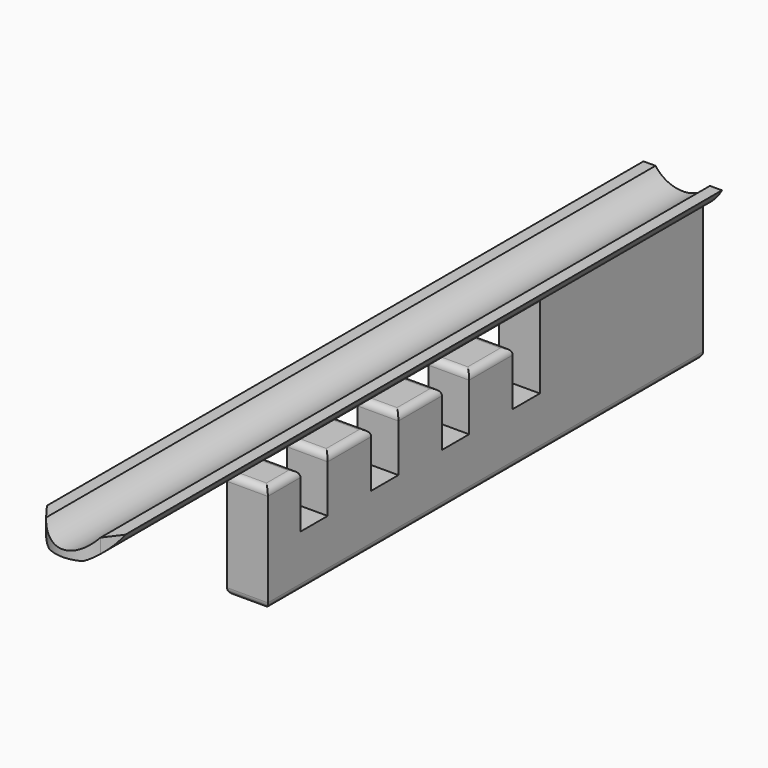
from build123d import *

# Parameters (mm, degrees)
PAD_DEPTH            = 120
PAD001_DEPTH         = 80
POCKET_DEPTH         = 5.767281
POCKET_DEPTH_BACK    = 5.767281
POCKET001_DEPTH      = 25.767281
POCKET002_DEPTH      = 5.767281
POCKET002_DEPTH_BACK = 5.767281
POCKET003_DEPTH      = 5.767281
POCKET003_DEPTH_BACK = 5.767281
POCKET004_DEPTH      = 5.767281
POCKET004_DEPTH_BACK = 5.767281
FILLET_R             = 1


with BuildPart() as part:
    # Sketch → Pad (new body)
    with BuildSketch(Plane.XZ):
        with BuildLine():
            ThreePointArc((-4, -3), (0, -5), (4, -3))
            Line((4, -3), (5.766281, -3))
            ThreePointArc((-5.766281, -3), (0, -6.5), (5.766281, -3))
            Line((-4, -3), (-5.766281, -3))
        make_face()
    extrude(amount=PAD_DEPTH)

    # Sketch001 → Pad001 (join)
    with BuildSketch(Plane.XZ):
        with BuildLine():
            ThreePointArc((-3, -5.766281), (0, -6.5), (3, -5.766281))
            Line((3, -25.766281), (3, -5.766281))
            Line((-3, -25.766281), (3, -25.766281))
            Line((-3, -5.766281), (-3, -25.766281))
        make_face()
    extrude(amount=PAD001_DEPTH)

    # Sketch002 → Pocket (cut, two sides)
    with BuildSketch(Plane.YZ) as pocket_sk:
        Polygon((-30, -18), (-30, -6), (-90, -6), (-90, -10), (-35, -10), (-35, -18), align=None)
    extrude(amount=-POCKET_DEPTH, mode=Mode.SUBTRACT)
    extrude(pocket_sk.sketch, amount=POCKET_DEPTH_BACK, mode=Mode.SUBTRACT)

    # Sketch003 → Pocket001 (cut, through all)
    with BuildSketch(Plane.XY):
        with BuildLine():
            Line((-10, -104), (-10, -134))
            Line((-10, -134), (10, -134))
            Line((10, -134), (10, -104))
            Line((10, -104), (4, -112))
            ThreePointArc((-4, -112), (0, -114), (4, -112))
            Line((-4, -112), (-10, -104))
        make_face()
    extrude(amount=-POCKET001_DEPTH, mode=Mode.SUBTRACT)

    # Sketch004 → Pocket002 (cut, two sides)
    with BuildSketch(Plane.YZ) as pocket002_sk:
        Polygon((-43, -18), (-43, -6), (-103, -6), (-103, -10), (-48, -10), (-48, -18), align=None)
    extrude(amount=-POCKET002_DEPTH, mode=Mode.SUBTRACT)
    extrude(pocket002_sk.sketch, amount=POCKET002_DEPTH_BACK, mode=Mode.SUBTRACT)

    # Sketch005 → Pocket003 (cut, two sides)
    with BuildSketch(Plane.YZ) as pocket003_sk:
        Polygon((-56, -18), (-56, -6), (-116, -6), (-116, -10), (-61, -10), (-61, -18), align=None)
    extrude(amount=-POCKET003_DEPTH, mode=Mode.SUBTRACT)
    extrude(pocket003_sk.sketch, amount=POCKET003_DEPTH_BACK, mode=Mode.SUBTRACT)

    # Sketch006 → Pocket004 (cut, two sides)
    with BuildSketch(Plane.YZ) as pocket004_sk:
        Polygon((-69, -18), (-69, -6), (-129, -6), (-129, -10), (-74, -10), (-74, -18), align=None)
    extrude(amount=-POCKET004_DEPTH, mode=Mode.SUBTRACT)
    extrude(pocket004_sk.sketch, amount=POCKET004_DEPTH_BACK, mode=Mode.SUBTRACT)

    # Fillet
    fillet_edges = [part.edges().sort_by_distance(p)[0] for p in [
        (0, -74, -10),
        (-3, -77, -10),
        (0, -80, -10),
        (3, -77, -10),
        (0, -61, -10),
        (-3, -65, -10),
        (0, -69, -10),
        (3, -65, -10),
        (0, -48, -10),
        (-3, -52, -10),
        (0, -56, -10),
        (3, -52, -10),
        (0, -35, -10),
        (-3, -39, -10),
        (0, -43, -10),
        (3, -39, -10),
        (-3, -40, -25.766281),
        (3, -40, -25.766281),
        (0, 0, -25.766281),
        (0, -80, -25.766281),
    ]]
    fillet(fillet_edges, radius=FILLET_R)


solid = part.part
